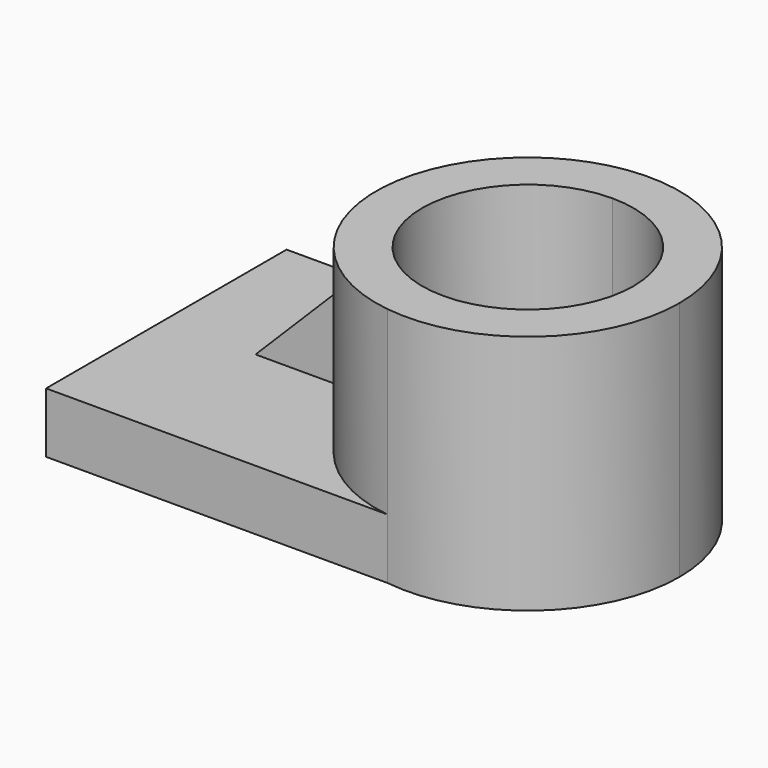
from build123d import *

# Parameters (mm, degrees)
F1_DEPTH = 50.8
F2_DEPTH = 12.7
F4_DEPTH = 6.35


with BuildPart() as f1:
    # F0 (on Top) → F1 (new body)
    with BuildSketch(Plane.XY):
        with BuildLine():
            Line((33.810558, 27.093243), (38.079627, 27.093243))
            Line((38.079627, 27.093243), (38.079627, 17.69675))
            ThreePointArc((38.079627, 17.69675), (53.823516, 11.175418), (60.344848, -4.568471))
            ThreePointArc((60.344848, -4.568471), (53.823516, -20.312359), (38.079627, -26.833692))
            Line((38.079627, -26.833692), (38.079627, -36.230184))
            Line((38.079627, -36.230184), (33.810558, -36.230184))
            ThreePointArc((33.810558, -36.230184), (59.106989, -28.62131), (70.027851, -4.568471))
            ThreePointArc((70.027851, -4.568471), (59.106989, 19.484369), (33.810558, 27.093243))
        make_face()
        with BuildLine():
            Line((38.079627, 17.69675), (38.079627, 27.093243))
            Line((38.079627, 27.093243), (33.810558, 27.093243))
            ThreePointArc((33.810558, 27.093243), (6.131402, -4.568471), (33.810558, -36.230184))
            Line((33.810558, -36.230184), (38.079627, -36.230184))
            Line((38.079627, -36.230184), (38.079627, -26.833692))
            ThreePointArc((38.079627, -26.833692), (15.814406, -4.568471), (38.079627, 17.69675))
        make_face()
    extrude(amount=F1_DEPTH)

    # F0 (on Top) → F2 (join)
    with BuildSketch(Plane.XY):
        with BuildLine():
            Line((33.810558, 27.093243), (38.079627, 27.093243))
            Line((38.079627, 27.093243), (38.079627, 17.69675))
            ThreePointArc((38.079627, 17.69675), (53.823516, 11.175418), (60.344848, -4.568471))
            ThreePointArc((60.344848, -4.568471), (53.823516, -20.312359), (38.079627, -26.833692))
            Line((38.079627, -26.833692), (38.079627, -36.230184))
            Line((38.079627, -36.230184), (33.810558, -36.230184))
            ThreePointArc((33.810558, -36.230184), (59.106989, -28.62131), (70.027851, -4.568471))
            ThreePointArc((70.027851, -4.568471), (59.106989, 19.484369), (33.810558, 27.093243))
        make_face()
        with BuildLine():
            ThreePointArc((33.810558, -36.230184), (6.131402, -4.568471), (33.810558, 27.093243))
            Line((33.810558, 27.093243), (-38.079627, 27.093243))
            Line((-38.079627, 27.093243), (-38.079627, -36.230184))
            Line((-38.079627, -36.230184), (33.810558, -36.230184))
        make_face()
    extrude(amount=F2_DEPTH)

    # F3 (on Front) → F4 (join, symmetric)
    with BuildSketch(Plane.XZ):
        Polygon((6.229152, 13.422799), (4.844896, 36.124598), (-17.856903, 13.422799), align=None)
    extrude(amount=F4_DEPTH, both=True)


solid = f1.part
